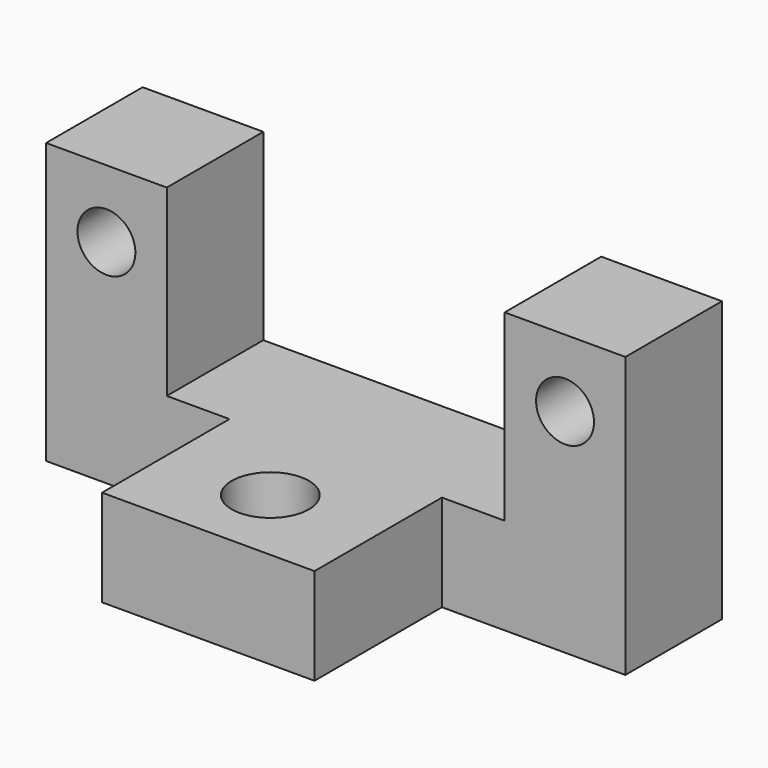
from build123d import *

# Parameters (mm, degrees)
F0_W      = 3048
F0_H      = 1473.2
F1_DEPTH  = 1473.2
F2_W      = 965.2
F2_H      = 838.2
F3_DEPTH  = 1473.2
F5_DEPTH  = 965.2
F6_R      = 152.4
F7_DEPTH  = 635
F8_R      = 152.4
F9_DEPTH  = 635
F10_R     = 203.2
F11_DEPTH = 508


with BuildPart() as f1:
    # F0 (on Front) → F1 (new body)
    with BuildSketch(Plane.XZ):
        with Locations((5.472999, 708.19254)):
            Rectangle(F0_W, F0_H)
    extrude(amount=F1_DEPTH)

    # F2 (on face) → F3 (cut)
    with BuildSketch(Plane.XY.offset(1444.79254)):
        with Locations((1046.872999, -1054.1)):
            Rectangle(F2_W, F2_H)
        with Locations((-1035.927001, -1054.1)):
            Rectangle(F2_W, F2_H)
    extrude(amount=-F3_DEPTH, mode=Mode.SUBTRACT)

    # F4 (on face) → F5 (cut)
    with BuildSketch(Plane.XY.offset(1444.79254)):
        Polygon((894.472999, 0), (-883.527001, 0), (-883.527001, -635), (-553.327001, -635), (-553.327001, -1473.2), (564.272999, -1473.2), (564.272999, -635), (894.472999, -635), align=None)
    extrude(amount=-F5_DEPTH, mode=Mode.SUBTRACT)

    # F6 (on face) → F7 (cut)
    with BuildSketch(Plane.XZ.offset(635)):
        with Locations((-1201.027001, 1089.19254)):
            Circle(F6_R)
    extrude(amount=-F7_DEPTH, mode=Mode.SUBTRACT)

    # F8 (on face) → F9 (cut)
    with BuildSketch(Plane.XZ.offset(635)):
        with Locations((1211.972999, 1089.19254)):
            Circle(F8_R)
    extrude(amount=-F9_DEPTH, mode=Mode.SUBTRACT)

    # F10 (on face) → F11 (cut)
    with BuildSketch(Plane.XY.offset(479.59254)):
        with Locations((0, -1058.204749)):
            Circle(F10_R)
    extrude(amount=-F11_DEPTH, mode=Mode.SUBTRACT)


solid = f1.part
